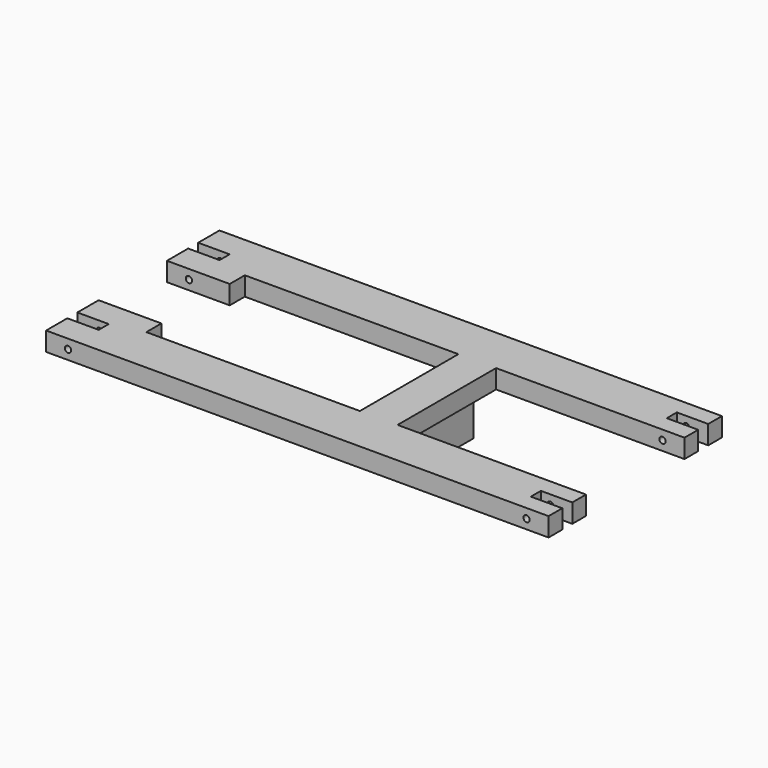
from build123d import *

# Parameters (mm, degrees)
F0_W     = 30
F0_H     = 7.45
F0_W_2   = 6
F0_W_3   = 4.75
F0_H_2   = 12
F0_W_4   = 0.6859594434
F0_W_5   = 0.5640405566
F0_W_6   = 34
F1_DEPTH = 3
F2_DEPTH = 5.5
F3_W     = 5
F3_H     = 2
F4_DEPTH = 25
F6_D     = 1
F7_W     = 10
F7_H     = 2
F8_DEPTH = 25


with BuildPart() as f1:
    # F0 (on Top) → F1 (new body)
    with BuildSketch(Plane.XY):
        with Locations((40, 13.525)):
            Rectangle(F0_W, F0_H)
        with Locations((40, -13.525)):
            Rectangle(F0_W, F0_H)
        with Locations((22, -13.525)):
            Rectangle(F0_W_2, F0_H)
        Polygon((19.6859594434, -6), (19, -6), (19, -9.8), (25, -9.8), (25, -6), (24.4359594434, -6), align=None)
        with Locations((22.0609594434, 0)):
            Rectangle(F0_W_3, F0_H_2)
        with Locations((19.3429797217, 0)):
            Rectangle(F0_W_4, F0_H_2)
        with Locations((24.7179797217, 0)):
            Rectangle(F0_W_5, F0_H_2)
        Polygon((25, 9.8), (19, 9.8), (19, 6), (19.6859594434, 6), (24.4359594434, 6), (25, 6), align=None)
        with Locations((22, 13.525)):
            Rectangle(F0_W_2, F0_H)
        with Locations((2, 13.525)):
            Rectangle(F0_W_6, F0_H)
        with Locations((2, -13.525)):
            Rectangle(F0_W_6, F0_H)
        Polygon((-15, -6.8), (-25, -6.8), (-25, -17.25), (-15, -17.25), (-15, -9.8), align=None)
        Polygon((-15, 17.25), (-25, 17.25), (-25, 6.8), (-15, 6.8), (-15, 9.8), align=None)
    extrude(amount=F1_DEPTH)

    # F0 (on Top) → F2 (join)
    with BuildSketch(Plane.XY):
        with Locations((22.0609594434, 0)):
            Rectangle(F0_W_3, F0_H_2)
    extrude(amount=-F2_DEPTH)

    # F3 (on face) → F4 (cut)
    with BuildSketch(Plane.XY.offset(3)):
        with Locations((-22.5, 12.025)):
            Rectangle(F3_W, F3_H)
        with Locations((-22.5, -12.025)):
            Rectangle(F3_W, F3_H)
    extrude(amount=-F4_DEPTH, mode=Mode.SUBTRACT)

    # F6 (through all)
    with Locations(Plane.XZ.offset(17.25)):
        with Locations((-21.5, 1.5), (51.5, 1.5)):
            Hole(F6_D / 2)

    # F7 (on face) → F8 (cut)
    with BuildSketch(Plane.XY.offset(3)):
        with Locations((55, -13.525)):
            Rectangle(F7_W, F7_H)
        with Locations((55, 13.525)):
            Rectangle(F7_W, F7_H)
    extrude(amount=-F8_DEPTH, mode=Mode.SUBTRACT)


solid = f1.part
